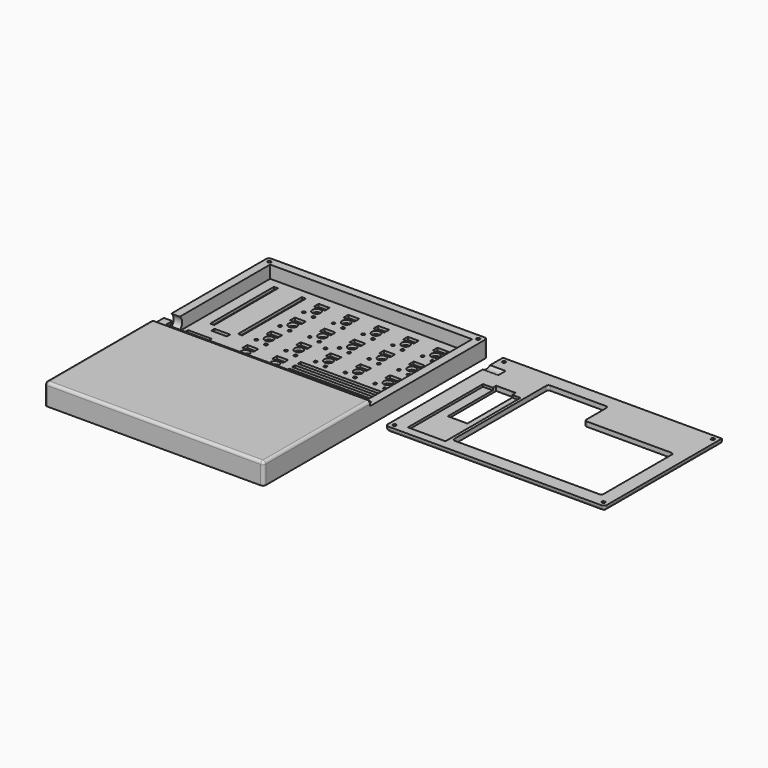
from build123d import *

# Parameters (mm, degrees)
PAD002_DEPTH                      = 13.6
SKETCH023_W                       = 129.2
SKETCH023_H                       = 83.1
POCKET016_DEPTH                   = 11
SKETCH027_R                       = 1.05
POCKET018_DEPTH                   = 13.601
SKETCH028_W                       = 140
SKETCH028_H                       = 93.9
POCKET019_DEPTH                   = 3
POCKET021_DEPTH                   = 1.6
SKETCH031_R                       = 1
SKETCH031_R_2                     = 2.7
SKETCH031_W                       = 7
SKETCH031_H                       = 3.8
POCKET022_DEPTH                   = 1.8
SKETCH032_W                       = 2.6
SKETCH032_H                       = 51
SKETCH032_W_2                     = 10
SKETCH032_H_2                     = 2.6
POCKET023_DEPTH                   = 1.8
SKETCH033_W                       = 56.5
SKETCH033_H                       = 2.4
SKETCH033_W_2                     = 22.5
POCKET024_DEPTH                   = 1.8
SKETCH034_W                       = 15
SKETCH034_H                       = 10
POCKET025_DEPTH                   = 1.8
SKETCH035_R                       = 4.85
POCKET026_DEPTH                   = 5.4
FILLET003_R                       = 1.8
SKETCH038_W                       = 140
SKETCH038_H                       = 93.9
PAD004_DEPTH                      = 3
SKETCH039_W                       = 12.5
SKETCH039_H                       = 38.6472
POCKET028_DEPTH                   = 3
SKETCH040_W                       = 24
SKETCH040_H                       = 60
POCKET029_DEPTH                   = 1.5
SKETCH041_R                       = 1.05
POCKET030_DEPTH                   = 3.001
SKETCH042_R                       = 1.9
POCKET031_DEPTH                   = 1.4
CHAMFER001_1_ANGLE                = 45
CHAMFER001_1_SIZE                 = 0.843
CHAMFER001_2_ANGLE                = 45
CHAMFER001_2_SIZE                 = 0.843
CHAMFER001_3_ANGLE                = 45
CHAMFER001_3_SIZE                 = 0.843
CHAMFER001_4_ANGLE                = 45
CHAMFER001_4_SIZE                 = 0.843
FILLET004_R                       = 1.5
SKETCH043_R                       = 4.85
POCKET032_DEPTH                   = 10
FILLET005_R                       = 1.8
BODY003_PLACEMENT_ANGLE           = 180
PART_MIRRORING001_PLACEMENT_ANGLE = 180


with BuildPart() as bottom001:
    # Sketch022 (on XY_Plane077 of Origin464) → Pad002 (new body)
    with BuildSketch(Plane.XY):
        Polygon((70, -46.95), (70, 46.95), (-70, 46.95), (-70, -46.95), (-70, -131.95), (70, -131.95), align=None)
    extrude(amount=PAD002_DEPTH)

    # Sketch023 (on Face4 of Pad002) → Pocket016 (cut)
    with BuildSketch(Plane.XY.offset(13.6)):
        Rectangle(SKETCH023_W, SKETCH023_H)
    extrude(amount=-POCKET016_DEPTH, mode=Mode.SUBTRACT)

    # Sketch027 (on Face5 of Pocket016) → Pocket018 (cut, through all)
    with BuildSketch(Plane.XY.offset(13.6)):
        with Locations((66.75, 43.7)):
            Circle(SKETCH027_R)
        with Locations((66.75, -43.7)):
            Circle(SKETCH027_R)
        with Locations((-66.75, -43.7)):
            Circle(SKETCH027_R)
        with Locations((-66.75, 43.7)):
            Circle(SKETCH027_R)
        with Locations((-4.05, 0)):
            Circle(SKETCH027_R)
    extrude(amount=-POCKET018_DEPTH, mode=Mode.SUBTRACT)

    # Sketch028 (on Face4 of Pad002) → Pocket019 (cut)
    with BuildSketch(Plane.XY.offset(13.6)):
        Rectangle(SKETCH028_W, SKETCH028_H)
    extrude(amount=-POCKET019_DEPTH, mode=Mode.SUBTRACT)

    # Sketch030 (on Face2 of Pocket019) → Pocket021 (cut)
    with BuildSketch(Plane(origin=(0, 0, 0), x_dir=(1, 0, 0), z_dir=(0, 0, -1))):
        Polygon((64.75, -43.7), (65.75, -45.432051), (67.75, -45.432051), (68.75, -43.7), (67.75, -41.967949), (65.75, -41.967949), align=None)
        Polygon((-64.75, -43.7), (-65.75, -45.432051), (-67.75, -45.432051), (-68.75, -43.7), (-67.75, -41.967949), (-65.75, -41.967949), align=None)
        Polygon((64.75, 43.7), (65.75, 45.432051), (67.75, 45.432051), (68.75, 43.7), (67.75, 41.967949), (65.75, 41.967949), align=None)
        Polygon((-64.75, 43.7), (-65.75, 45.432051), (-67.75, 45.432051), (-68.75, 43.7), (-67.75, 41.967949), (-65.75, 41.967949), align=None)
        Polygon((-2.05, 0), (-3.05, 1.732051), (-5.05, 1.732051), (-6.05, 0), (-5.05, -1.732051), (-3.05, -1.732051), align=None)
    extrude(amount=-POCKET021_DEPTH, mode=Mode.SUBTRACT)

    # Sketch031 (on Face52 of Pocket021) → Pocket022 (cut)
    with BuildSketch(Plane.XY.offset(2.6)):
        with Locations((28.85, 23.8)):
            Circle(SKETCH031_R)
        with Locations((21.85, 22.75)):
            Circle(SKETCH031_R)
        with Locations((24.45, 28.5)):
            Circle(SKETCH031_R_2)
        with Locations((9.85, 23.8)):
            Circle(SKETCH031_R)
        with Locations((2.85, 22.75)):
            Circle(SKETCH031_R)
        with Locations((5.45, 28.5)):
            Circle(SKETCH031_R_2)
        with Locations((-9.15, 23.8)):
            Circle(SKETCH031_R)
        with Locations((-16.15, 22.75)):
            Circle(SKETCH031_R)
        with Locations((-13.55, 28.5)):
            Circle(SKETCH031_R_2)
        with Locations((-28.15, 23.8)):
            Circle(SKETCH031_R)
        with Locations((-35.15, 22.75)):
            Circle(SKETCH031_R)
        with Locations((-32.55, 28.5)):
            Circle(SKETCH031_R_2)
        with Locations((-47.15, 23.8)):
            Circle(SKETCH031_R)
        with Locations((-54.15, 22.75)):
            Circle(SKETCH031_R)
        with Locations((-51.55, 28.5)):
            Circle(SKETCH031_R_2)
        with Locations((28.85, -14.2)):
            Circle(SKETCH031_R)
        with Locations((21.85, -15.25)):
            Circle(SKETCH031_R)
        with Locations((24.45, -9.5)):
            Circle(SKETCH031_R_2)
        with Locations((9.85, -14.2)):
            Circle(SKETCH031_R)
        with Locations((2.85, -15.25)):
            Circle(SKETCH031_R)
        with Locations((5.45, -9.5)):
            Circle(SKETCH031_R_2)
        with Locations((-9.15, -14.2)):
            Circle(SKETCH031_R)
        with Locations((-16.15, -15.25)):
            Circle(SKETCH031_R)
        with Locations((-13.55, -9.5)):
            Circle(SKETCH031_R_2)
        with Locations((-28.15, -14.2)):
            Circle(SKETCH031_R)
        with Locations((-35.15, -15.25)):
            Circle(SKETCH031_R)
        with Locations((-32.55, -9.5)):
            Circle(SKETCH031_R_2)
        with Locations((-47.15, -14.2)):
            Circle(SKETCH031_R)
        with Locations((-54.15, -15.25)):
            Circle(SKETCH031_R)
        with Locations((-51.55, -9.5)):
            Circle(SKETCH031_R_2)
        with Locations((28.85, -33.2)):
            Circle(SKETCH031_R)
        with Locations((21.85, -34.25)):
            Circle(SKETCH031_R)
        with Locations((24.45, -28.5)):
            Circle(SKETCH031_R_2)
        with Locations((9.85, -33.2)):
            Circle(SKETCH031_R)
        with Locations((2.85, -34.25)):
            Circle(SKETCH031_R)
        with Locations((5.45, -28.5)):
            Circle(SKETCH031_R_2)
        with Locations((28.85, 4.8)):
            Circle(SKETCH031_R)
        with Locations((21.85, 3.75)):
            Circle(SKETCH031_R)
        with Locations((24.45, 9.5)):
            Circle(SKETCH031_R_2)
        with Locations((9.85, 4.8)):
            Circle(SKETCH031_R)
        with Locations((2.85, 3.75)):
            Circle(SKETCH031_R)
        with Locations((5.45, 9.5)):
            Circle(SKETCH031_R_2)
        with Locations((-9.15, 4.8)):
            Circle(SKETCH031_R)
        with Locations((-16.15, 3.75)):
            Circle(SKETCH031_R)
        with Locations((-13.55, 9.5)):
            Circle(SKETCH031_R_2)
        with Locations((-28.15, 4.8)):
            Circle(SKETCH031_R)
        with Locations((-35.15, 3.75)):
            Circle(SKETCH031_R)
        with Locations((-32.55, 9.5)):
            Circle(SKETCH031_R_2)
        with Locations((-47.15, 4.8)):
            Circle(SKETCH031_R)
        with Locations((-54.15, 3.75)):
            Circle(SKETCH031_R)
        with Locations((-51.55, 9.5)):
            Circle(SKETCH031_R_2)
        with Locations((25.25, 33.65)):
            Rectangle(SKETCH031_W, SKETCH031_H)
        with Locations((6.25, 33.65)):
            Rectangle(SKETCH031_W, SKETCH031_H)
        with Locations((-12.75, 33.65)):
            Rectangle(SKETCH031_W, SKETCH031_H)
        with Locations((-31.75, 33.65)):
            Rectangle(SKETCH031_W, SKETCH031_H)
        with Locations((-50.75, 33.65)):
            Rectangle(SKETCH031_W, SKETCH031_H)
        with Locations((25.25, -4.35)):
            Rectangle(SKETCH031_W, SKETCH031_H)
        with Locations((6.25, -4.35)):
            Rectangle(SKETCH031_W, SKETCH031_H)
        with Locations((-12.75, -4.35)):
            Rectangle(SKETCH031_W, SKETCH031_H)
        with Locations((-31.75, -4.35)):
            Rectangle(SKETCH031_W, SKETCH031_H)
        with Locations((-50.75, -4.35)):
            Rectangle(SKETCH031_W, SKETCH031_H)
        with Locations((25.25, -23.35)):
            Rectangle(SKETCH031_W, SKETCH031_H)
        with Locations((6.25, -23.35)):
            Rectangle(SKETCH031_W, SKETCH031_H)
        with Locations((25.25, 14.65)):
            Rectangle(SKETCH031_W, SKETCH031_H)
        with Locations((6.25, 14.65)):
            Rectangle(SKETCH031_W, SKETCH031_H)
        with Locations((-12.75, 14.65)):
            Rectangle(SKETCH031_W, SKETCH031_H)
        with Locations((-31.75, 14.65)):
            Rectangle(SKETCH031_W, SKETCH031_H)
        with Locations((-50.75, 14.65)):
            Rectangle(SKETCH031_W, SKETCH031_H)
    extrude(amount=-POCKET022_DEPTH, mode=Mode.SUBTRACT)

    # Sketch032 (on Face52 of Pocket022) → Pocket023 (cut)
    with BuildSketch(Plane.XY.offset(2.6)):
        with Locations((38.55, 10.5)):
            Rectangle(SKETCH032_W, SKETCH032_H)
        with Locations((56.4, 10.5)):
            Rectangle(SKETCH032_W, SKETCH032_H)
        with Locations((47.5, -19.3)):
            Rectangle(SKETCH032_W_2, SKETCH032_H_2)
    extrude(amount=-POCKET023_DEPTH, mode=Mode.SUBTRACT)

    # Sketch033 (on Face52 of Pocket023) → Pocket024 (cut)
    with BuildSketch(Plane.XY.offset(2.6)):
        with Locations((-31.75, -24.9)):
            Rectangle(SKETCH033_W, SKETCH033_H)
        with Locations((-31.75, -29.5)):
            Rectangle(SKETCH033_W, SKETCH033_H)
        with Locations((-14.75, -34.1)):
            Rectangle(SKETCH033_W_2, SKETCH033_H)
        with Locations((-31.75, -20.3)):
            Rectangle(SKETCH033_W, SKETCH033_H)
    extrude(amount=-POCKET024_DEPTH, mode=Mode.SUBTRACT)

    # Sketch034 (on Face52 of Pocket024) → Pocket025 (cut)
    with BuildSketch(Plane.XY.offset(2.6)):
        with Locations((54.375, -32.375)):
            Rectangle(SKETCH034_W, SKETCH034_H)
    extrude(amount=-POCKET025_DEPTH, mode=Mode.SUBTRACT)

    # Sketch035 (on Face5 of Pocket025) → Pocket026 (cut)
    with BuildSketch(Plane.YZ.offset(70)):
        with Locations((-33.65, 6.75)):
            Circle(SKETCH035_R)
    extrude(amount=-POCKET026_DEPTH, mode=Mode.SUBTRACT)

    # Fillet003
    fillet003_edges = [bottom001.edges().sort_by_distance(p)[0] for p in [
        (-70, -89.45, 13.6),
        (0, -131.95, 13.6),
        (-70, -131.95, 6.8),
        (-70, 46.95, 5.3),
        (70, 46.95, 5.3),
        (70, -89.45, 13.6),
        (70, -131.95, 6.8),
    ]]
    fillet(fillet003_edges, radius=FILLET003_R)


with BuildPart() as bottom001_1:
    # Body002 placement: moved
    add(bottom001.part.moved(Location((0, 0, -0.1))))


with BuildPart() as part_mirroring:
    # Part__Mirroring: instance of Bottom001
    add(bottom001_1.part.mirror(Plane(origin=(0, 0, 0), x_dir=(0, -1, 0), z_dir=(1, 0, 0))))


with BuildPart() as top001:
    # Sketch038 (on XY_Plane154 of Origin468) → Pad004 (new body)
    with BuildSketch(Plane.XY):
        Rectangle(SKETCH038_W, SKETCH038_H)
    extrude(amount=PAD004_DEPTH)

    # Sketch039 (on Face6 of Pad004) → Pocket028 (cut)
    with BuildSketch(Plane.XY.offset(3)):
        Polygon((-61.3, 38.25), (-61.3, -19.25), (-4.3, -19.25), (-4.3, -38.25), (34.2, -38.25), (34.2, 38.25), align=None)
        with Locations((47.48708, -1.86296)):
            Rectangle(SKETCH039_W, SKETCH039_H)
    extrude(amount=-POCKET028_DEPTH, mode=Mode.SUBTRACT)

    # Sketch040 (on Face4 of Pocket028) → Pocket029 (cut)
    with BuildSketch(Plane(origin=(0, 0, 0), x_dir=(1, 0, 0), z_dir=(0, 0, -1))):
        with Locations((48, -11.55)):
            Rectangle(SKETCH040_W, SKETCH040_H)
    extrude(amount=-POCKET029_DEPTH, mode=Mode.SUBTRACT)

    # Sketch041 (on Face5 of Pocket029) → Pocket030 (cut, through all)
    with BuildSketch(Plane.XY.offset(3)):
        with Locations((66.75, 43.7)):
            Circle(SKETCH041_R)
        with Locations((66.75, -43.7)):
            Circle(SKETCH041_R)
        with Locations((-66.75, -43.7)):
            Circle(SKETCH041_R)
        with Locations((-66.75, 43.7)):
            Circle(SKETCH041_R)
    extrude(amount=-POCKET030_DEPTH, mode=Mode.SUBTRACT)

    # Sketch042 (on Face5 of Pocket030) → Pocket031 (cut)
    with BuildSketch(Plane.XY.offset(3)):
        with Locations((-66.75, 43.7)):
            Circle(SKETCH042_R)
        with Locations((66.75, 43.7)):
            Circle(SKETCH042_R)
        with Locations((-66.75, -43.7)):
            Circle(SKETCH042_R)
        with Locations((66.75, -43.7)):
            Circle(SKETCH042_R)
    extrude(amount=-POCKET031_DEPTH, mode=Mode.SUBTRACT)

    # Chamfer001 1
    chamfer001_1_edges = [top001.edges().sort_by_distance(p)[0] for p in [
        (-67.8, 43.7, 1.6),
    ]]
    chamfer001_1_side = top001.faces().sort_by_distance((-67.8, 43.7, 0.8))[0]
    chamfer(chamfer001_1_edges, length=CHAMFER001_1_SIZE, angle=CHAMFER001_1_ANGLE, reference=chamfer001_1_side)

    # Chamfer001 2
    chamfer001_2_edges = [top001.edges().sort_by_distance(p)[0] for p in [
        (65.7, -43.7, 1.6),
    ]]
    chamfer001_2_side = top001.faces().sort_by_distance((65.7, -43.7, 0.8))[0]
    chamfer(chamfer001_2_edges, length=CHAMFER001_2_SIZE, angle=CHAMFER001_2_ANGLE, reference=chamfer001_2_side)

    # Chamfer001 3
    chamfer001_3_edges = [top001.edges().sort_by_distance(p)[0] for p in [
        (-67.8, -43.7, 1.6),
    ]]
    chamfer001_3_side = top001.faces().sort_by_distance((-67.8, -43.7, 0.8))[0]
    chamfer(chamfer001_3_edges, length=CHAMFER001_3_SIZE, angle=CHAMFER001_3_ANGLE, reference=chamfer001_3_side)

    # Chamfer001 4
    chamfer001_4_edges = [top001.edges().sort_by_distance(p)[0] for p in [
        (65.7, 43.7, 1.6),
    ]]
    chamfer001_4_side = top001.faces().sort_by_distance((65.7, 43.7, 0.8))[0]
    chamfer(chamfer001_4_edges, length=CHAMFER001_4_SIZE, angle=CHAMFER001_4_ANGLE, reference=chamfer001_4_side)

    # Fillet004
    fillet004_edges = [top001.edges().sort_by_distance(p)[0] for p in [
        (-4.3, -38.25, 1.5),
        (34.2, -38.25, 1.5),
        (34.2, 38.25, 1.5),
        (-61.3, 38.25, 1.5),
        (-61.3, -19.25, 1.5),
        (-4.3, -19.25, 1.5),
    ]]
    fillet(fillet004_edges, radius=FILLET004_R)

    # Sketch043 (on Face16 of Fillet004) → Pocket032 (cut)
    with BuildSketch(Plane.YZ.offset(70)):
        with Locations((-33.64, -3.85)):
            Circle(SKETCH043_R)
    extrude(amount=-POCKET032_DEPTH, mode=Mode.SUBTRACT)

    # Fillet005
    fillet005_edges = [top001.edges().sort_by_distance(p)[0] for p in [
        (70, 0, 3),
        (0, 46.95, 3),
        (70, 46.95, 1.5),
        (-70, 46.95, 1.5),
        (-70, 0, 3),
    ]]
    fillet(fillet005_edges, radius=FILLET005_R)


with BuildPart() as top001_1:
    # Body003 placement: moved
    add(top001.part.moved(Location((150, 0, 2.9))).rotate(Axis((150, 0, 2.9), (0, 1, 0)), BODY003_PLACEMENT_ANGLE))


with BuildPart() as part_mirroring001:
    # Part__Mirroring001: instance of Top001
    add(top001_1.part.mirror(Plane(origin=(0, 0, 0), x_dir=(0, -1, 0), z_dir=(1, 0, 0))))


with BuildPart() as part_mirroring001_1:
    # Part__Mirroring001 placement: moved
    add(part_mirroring001.part.moved(Location((0, 0, 0))).rotate(Axis((0, 0, 0), (0, 0, -1)), PART_MIRRORING001_PLACEMENT_ANGLE))


solid = Compound([part_mirroring.part, part_mirroring001_1.part])
